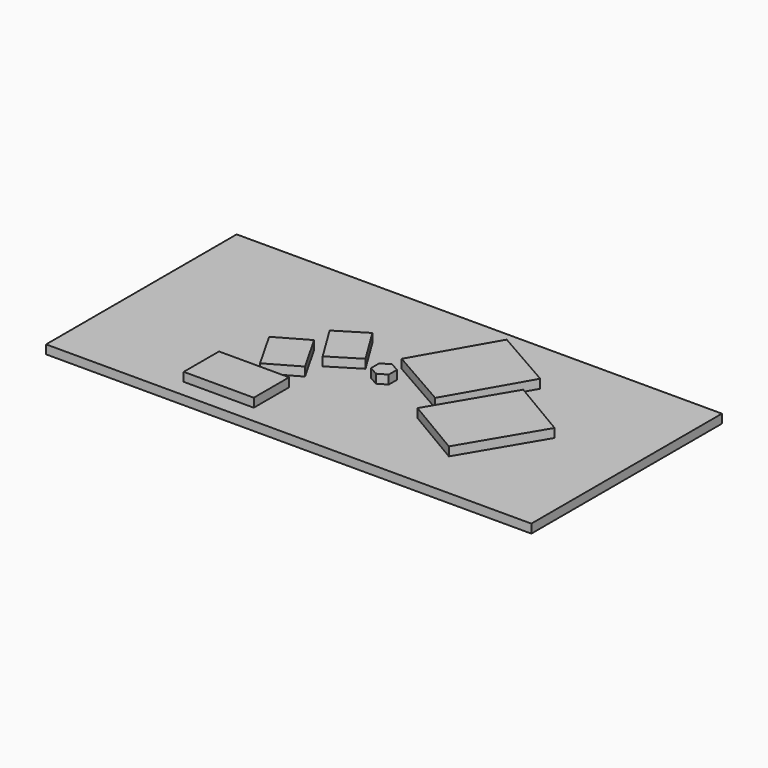
from build123d import *

# Parameters (mm, degrees)
F0_W     = 1397
F0_H     = 685.8
F1_DEPTH = 25.4
F2_W     = 201.665993
F2_H     = 127
F3_DEPTH = 25.4


with BuildPart() as f1:
    # F0 (on Top) → F1 (new body)
    with BuildSketch(Plane.XY):
        Rectangle(F0_W, F0_H)
    extrude(amount=F1_DEPTH)


with BuildPart() as f3:
    # F2 (on face) → F3 (new body)
    with BuildSketch(Plane.XY.offset(25.4)):
        Polygon((25.4, -14.664697), (25.4, 14.664697), (0, 29.329394), (-25.4, 14.664697), (-25.4, -14.664697), (0, -29.329394), align=None)
        Polygon((307.289807, 116.91405), (177.8, -101.6), (349.25, -203.2), (478.739807, 15.31405), align=None)
        Polygon((126.01929, 284.033758), (0, 63.5), (177.8, -38.1), (303.81929, 182.433758), align=None)
        Polygon((-212.480769, 69.85), (-146.05, -38.1), (-63.5, 12.7), (-129.930769, 120.65), align=None)
        Polygon((-299.504018, -38.969219), (-234.95, -152.4), (-146.05, -101.80657), (-210.604018, 11.624211), align=None)
        with Locations((-242.067003, -228.6)):
            Rectangle(F2_W, F2_H)
    extrude(amount=F3_DEPTH)


solid = Compound([f1.part, f3.part])
